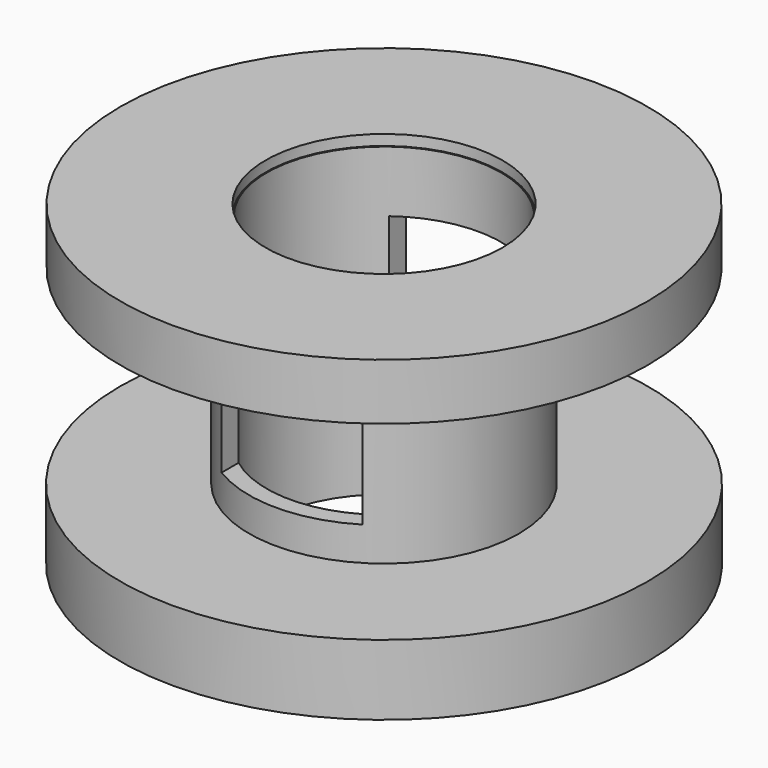
from build123d import *

# Parameters (mm, degrees)
F0_R          = 19.05
F0_R_2        = 9.7365901145
F1_DEPTH      = 5.08
F0_R_3        = 8.4665901145
F2_DEPTH      = 22.098
F4_START      = 18.796
F3_R          = 19.0205211377
F3_R_2        = 8.5460755938
F4_DEPTH      = 4.064
F5_W          = 10.16
F5_H          = 10.16
F6_DEPTH      = 13.716
F6_DEPTH_BACK = 12.446


with BuildPart() as f1:
    # F0 (on Top) → F1 (new body)
    with BuildSketch(Plane.XY):
        Circle(F0_R)
        Circle(F0_R_2, mode=Mode.SUBTRACT)
    extrude(amount=F1_DEPTH)

    # F0 (on Top) → F2 (join)
    with BuildSketch(Plane.XY):
        Circle(F0_R_2)
        Circle(F0_R_3, mode=Mode.SUBTRACT)
    extrude(amount=F2_DEPTH)

    # F3 (on Top) → F4 (join)
    with BuildSketch(Plane.XY.offset(F4_START)):
        Circle(F3_R)
        Circle(F3_R_2, mode=Mode.SUBTRACT)
    extrude(amount=F4_DEPTH)

    # F5 (on Front) → F6 (cut, two sides)
    with BuildSketch(Plane.XZ) as f6_sk:
        with Locations((0.0056111868, 12.6004907916)):
            Rectangle(F5_W, F5_H)
    extrude(amount=-F6_DEPTH, mode=Mode.SUBTRACT)
    extrude(f6_sk.sketch, amount=F6_DEPTH_BACK, mode=Mode.SUBTRACT)


solid = f1.part
